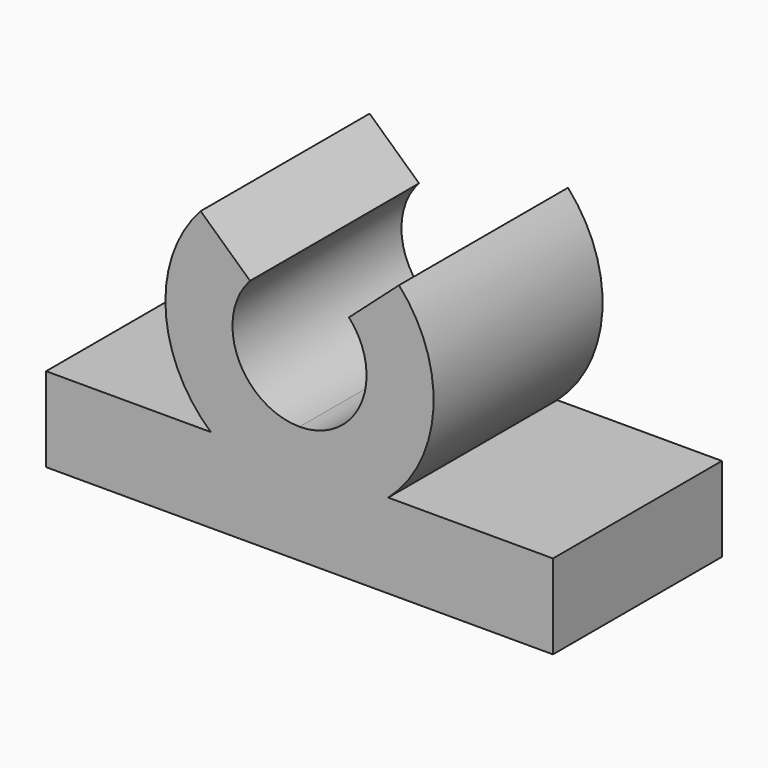
from build123d import *

# Parameters (mm, degrees)
F1_DEPTH = 5


with BuildPart() as f1:
    # F0 (on Front) → F1 (new body)
    with BuildSketch(Plane.XZ):
        with BuildLine():
            ThreePointArc((0, -1.5875), (-1.4530569731, -0.6393603702), (-1.1704277722, 1.0724994546))
            Line((-1.1704277722, 1.0724994546), (-2.3408555444, 2.1449989092))
            ThreePointArc((-2.3408555444, 2.1449989092), (-3.1705167318, -0.1686672868), (-2.1000651032, -2.38125))
            Line((-2.1000651032, -2.38125), (0, -2.38125))
            Line((0, -2.38125), (0, -1.5875))
        make_face()
        with BuildLine():
            ThreePointArc((1.1704277722, 1.0724994546), (1.4530569731, -0.6393603702), (0, -1.5875))
            Line((0, -1.5875), (0, -2.38125))
            Line((0, -2.38125), (2.1000651032, -2.38125))
            ThreePointArc((2.1000651032, -2.38125), (3.1698983875, -0.1799144601), (2.3560164076, 2.1283354263))
            Line((2.3560164076, 2.1283354263), (1.1704277722, 1.0724994546))
        make_face()
        with BuildLine():
            Line((0, -3.175), (0, -2.38125))
            Line((0, -2.38125), (-2.1000651032, -2.38125))
            ThreePointArc((-2.1000651032, -2.38125), (-1.1225320151, -2.9699405508), (0, -3.175))
        make_face()
        with BuildLine():
            Line((2.1000651032, -2.38125), (0, -2.38125))
            Line((0, -2.38125), (0, -3.175))
            ThreePointArc((0, -3.175), (1.1225320151, -2.9699405508), (2.1000651032, -2.38125))
        make_face()
        with BuildLine():
            ThreePointArc((0, -3.175), (-1.1225320151, -2.9699405508), (-2.1000651032, -2.38125))
            Line((-2.1000651032, -2.38125), (-6, -2.38125))
            Line((-6, -2.38125), (-6, -4.38125))
            Line((-6, -4.38125), (6, -4.38125))
            Line((6, -4.38125), (6, -2.38125))
            Line((6, -2.38125), (2.1000651032, -2.38125))
            ThreePointArc((2.1000651032, -2.38125), (1.1225320151, -2.9699405508), (0, -3.175))
        make_face()
    extrude(amount=F1_DEPTH)


solid = f1.part
